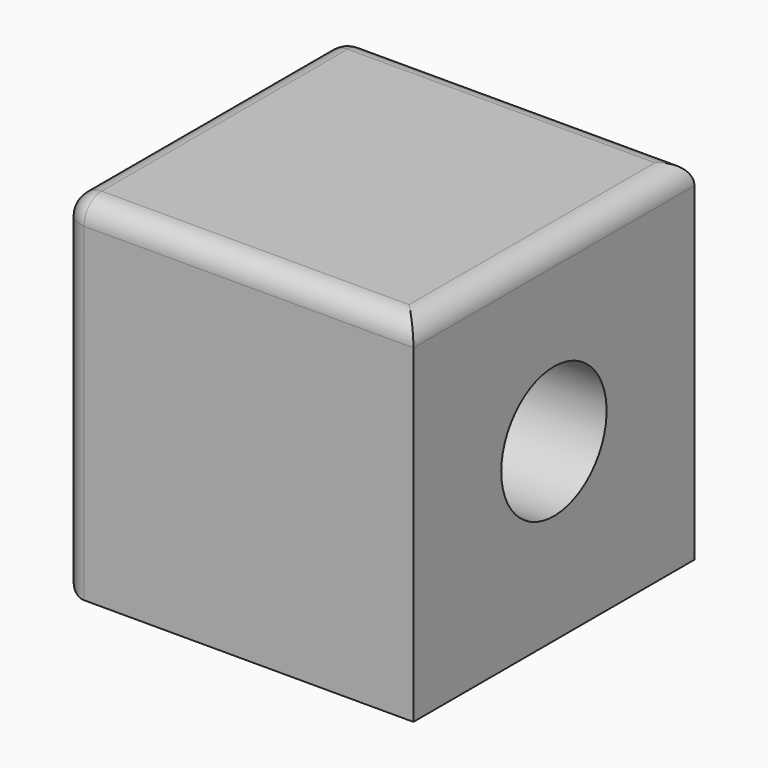
from build123d import *

# Parameters (mm, degrees)
F0_W     = 80
F0_H     = 80
F1_DEPTH = 40
F2_R     = 5
F3_R     = 15
F4_DEPTH = 80.001


with BuildPart() as f1:
    # F0 (on Top) → F1 (new body, symmetric)
    with BuildSketch(Plane.XY):
        Rectangle(F0_W, F0_H)
    extrude(amount=F1_DEPTH, both=True)

    # F2
    f2_edges = [f1.edges().sort_by_distance(p)[0] for p in [
        (-40, 0, 40),
        (0, -40, 40),
        (40, 0, 40),
        (0, 40, 40),
        (-40, 40, 0),
        (-40, 0, -40),
        (-40, -40, 0),
    ]]
    fillet(f2_edges, radius=F2_R)

    # F3 (on face) → F4 (cut, through all)
    with BuildSketch(Plane(origin=(-40, 0, 0), x_dir=(0, -1, 0), z_dir=(-1, 0, 0))):
        Circle(F3_R)
    extrude(amount=-F4_DEPTH, mode=Mode.SUBTRACT)


solid = f1.part
